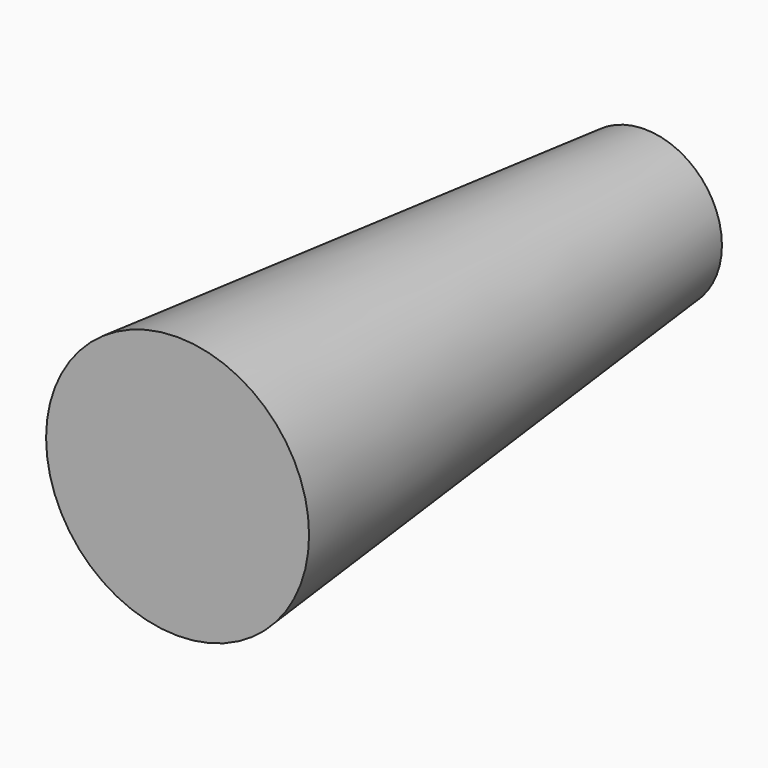
from build123d import *

# Parameters (mm, degrees)
F0_R = 33.541096
F2_R = 57.187783


with BuildPart() as f3:
    # F0 (on Front) → F3 section 0
    with BuildSketch(Plane.XZ):
        Circle(F0_R)
    # F2 (on offset) → F3 section 1
    with BuildSketch(Plane.XZ.offset(254)):
        Circle(F2_R)
    loft()


solid = f3.part
